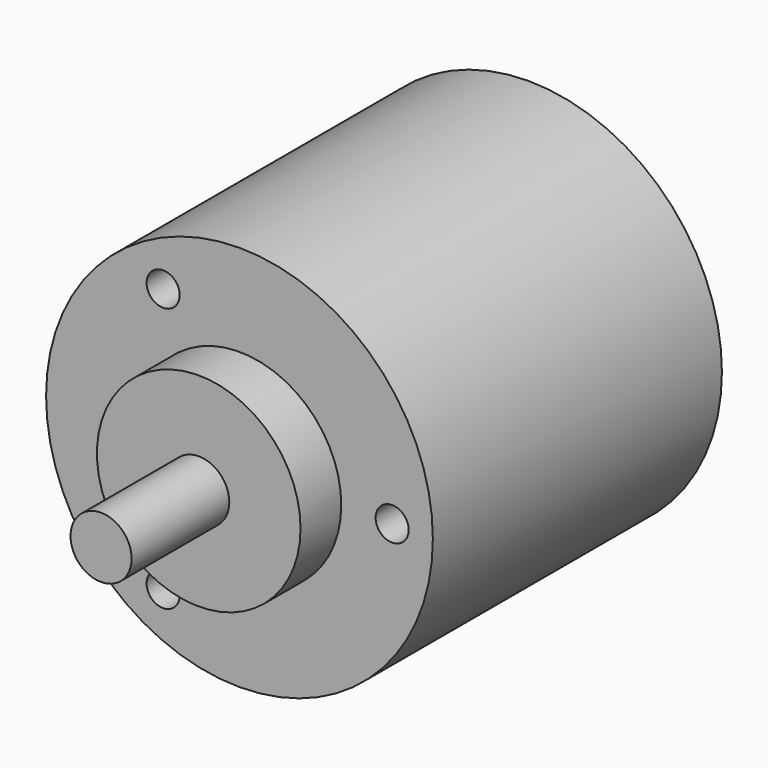
from build123d import *

# Parameters (mm, degrees)
F1_R     = 19
F2_DEPTH = 35.5
F0_R     = 1.625
F3_DEPTH = 8
F4_R     = 10
F5_DEPTH = 5
F6_R     = 3
F7_DEPTH = 12


with BuildPart() as f2:
    # F1 (on Front) → F2 (new body)
    with BuildSketch(Plane.XZ):
        Circle(F1_R)
    extrude(amount=-F2_DEPTH)

    # F0 (on Front) → F3 (cut)
    with BuildSketch(Plane.XZ):
        with Locations((15, 0)):
            Circle(F0_R)
        with Locations((-7.5, 12.990381)):
            Circle(F0_R)
        with Locations((-7.5, -12.990381)):
            Circle(F0_R)
    extrude(amount=-F3_DEPTH, mode=Mode.SUBTRACT)

    # F4 (on face) → F5 (join)
    with BuildSketch(Plane.XZ):
        Circle(F4_R)
    extrude(amount=F5_DEPTH)

    # F6 (on face) → F7 (join)
    with BuildSketch(Plane.XZ.offset(5)):
        Circle(F6_R)
    extrude(amount=F7_DEPTH)


solid = f2.part
